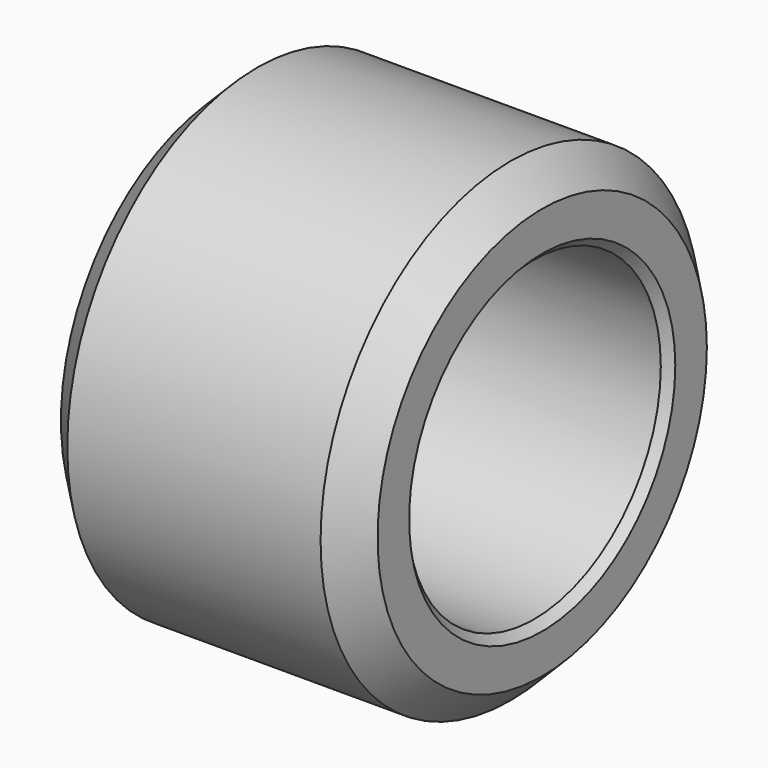
from build123d import *

# Parameters (mm, degrees)
F0_R     = 150
F0_R_2   = 100
F1_DEPTH = 200
F2_SIZE  = 20
F3_SIZE  = 20
F4_SIZE  = 5.08
F5_SIZE  = 5.08


with BuildPart() as f1:
    # F0 (on Right) → F1 (new body)
    with BuildSketch(Plane.YZ):
        Circle(F0_R)
        Circle(F0_R_2, mode=Mode.SUBTRACT)
    extrude(amount=F1_DEPTH)

    # F2
    f2_edges = [f1.edges().sort_by_distance(p)[0] for p in [
        (200, -150, 0),
    ]]
    chamfer(f2_edges, length=F2_SIZE)

    # F3
    f3_edges = [f1.edges().sort_by_distance(p)[0] for p in [
        (0, -150, 0),
    ]]
    chamfer(f3_edges, length=F3_SIZE)

    # F4
    f4_edges = [f1.edges().sort_by_distance(p)[0] for p in [
        (200, -100, 0),
    ]]
    chamfer(f4_edges, length=F4_SIZE)

    # F5
    f5_edges = [f1.edges().sort_by_distance(p)[0] for p in [
        (0, -100, 0),
    ]]
    chamfer(f5_edges, length=F5_SIZE)


solid = f1.part
